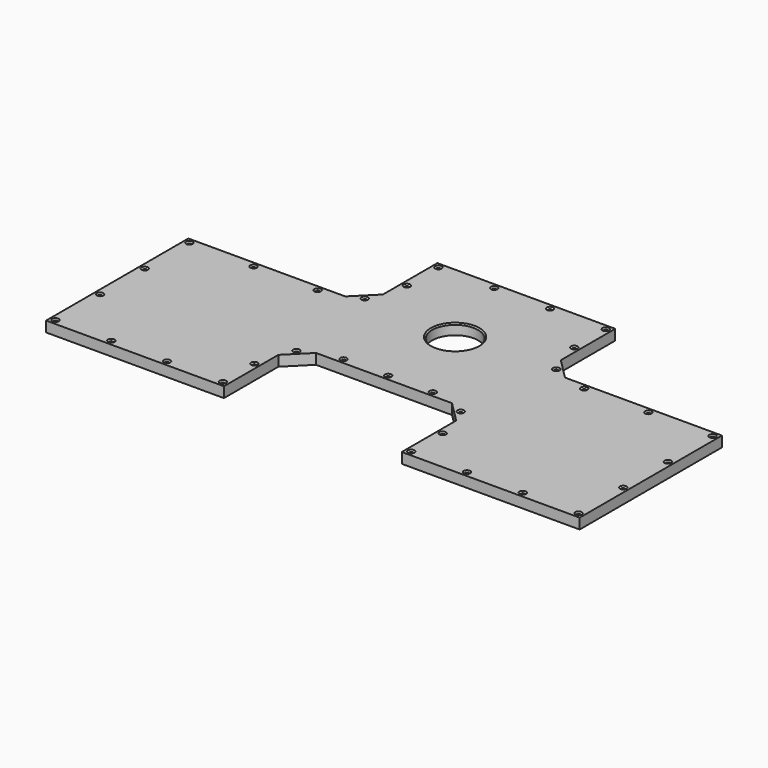
from build123d import *

# Parameters (mm, degrees)
F0_R           = 27.94
F1_DEPTH       = 12.7
F3_D           = 4.7625
F3_CSINK_D     = 7.9375
F3_CSINK_ANGLE = 85
F4_SIZE        = 1.5875


with BuildPart() as f1:
    # F0 (on Top) → F1 (new body)
    with BuildSketch(Plane.XY):
        Polygon((-82.55, 0), (82.55, 0), (107.95, -25.4), (107.95, -107.95), (323.85, -107.95), (323.85, 107.95), (133.35, 107.95), (107.95, 133.35), (107.95, 215.9), (-107.95, 215.9), (-107.95, 133.35), (-133.35, 107.95), (-323.85, 107.95), (-323.85, -107.95), (-107.95, -107.95), (-107.95, -25.4), align=None)
        with Locations((0, 107.95)):
            Circle(F0_R, mode=Mode.SUBTRACT)
    extrude(amount=F1_DEPTH)

    # F3 (through all)
    with Locations(Plane.XY.offset(12.7)):
        with Locations((-239.609983, 101.6), (-161.719967, 101.6), (-116.159872, 116.159872), (-101.6, 161.719967), (-101.6, 209.55), (-33.866667, 209.55), (33.866667, 209.55), (101.6, 209.55), (101.6, 161.719967), (116.159872, 116.159872), (161.719967, 101.6), (239.609983, 101.6), (317.5, 33.866667), (317.5, 101.6), (317.5, -33.866667), (317.5, -101.6), (249.766667, -101.6), (182.033333, -101.6), (114.3, -53.769967), (114.3, -101.6), (99.740128, -8.209872), (54.180033, 6.35), (0, 6.35), (-54.180033, 6.35), (-99.740128, -8.209872), (-114.3, -53.769967), (-114.3, -101.6), (-182.033333, -101.6), (-249.766667, -101.6), (-317.5, -101.6), (-317.5, -33.866667), (-317.5, 33.866667), (-317.5, 101.6)):
            CounterSinkHole(F3_D / 2, F3_CSINK_D / 2, counter_sink_angle=F3_CSINK_ANGLE)

    # F4
    f4_edges = [f1.edges().sort_by_distance(p)[0] for p in [
        (-27.94, 107.95, 12.7),
    ]]
    chamfer(f4_edges, length=F4_SIZE)


solid = f1.part
